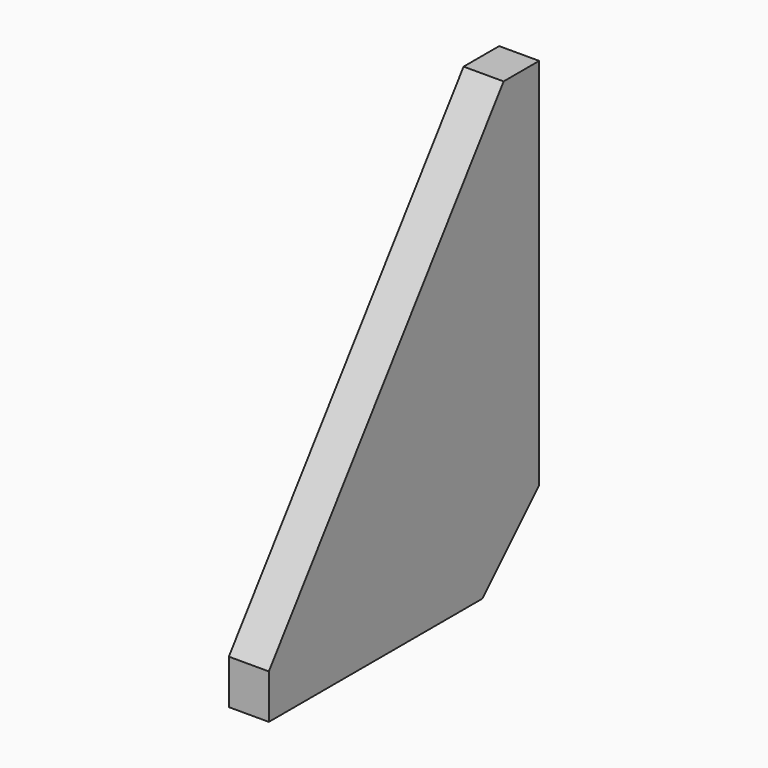
from build123d import *

# Parameters (mm, degrees)
F1_DEPTH = 4.5
F2_SIZE  = 8


with BuildPart() as f1:
    # F0 (on Right) → F1 (new body)
    with BuildSketch(Plane.YZ):
        Polygon((-38, 0), (0, 0), (0, 50), (-5, 50), (-38, 5), align=None)
    extrude(amount=-F1_DEPTH)

    # F2
    f2_edges = [f1.edges().sort_by_distance(p)[0] for p in [
        (-2.25, 0, 0),
    ]]
    chamfer(f2_edges, length=F2_SIZE)


solid = f1.part
